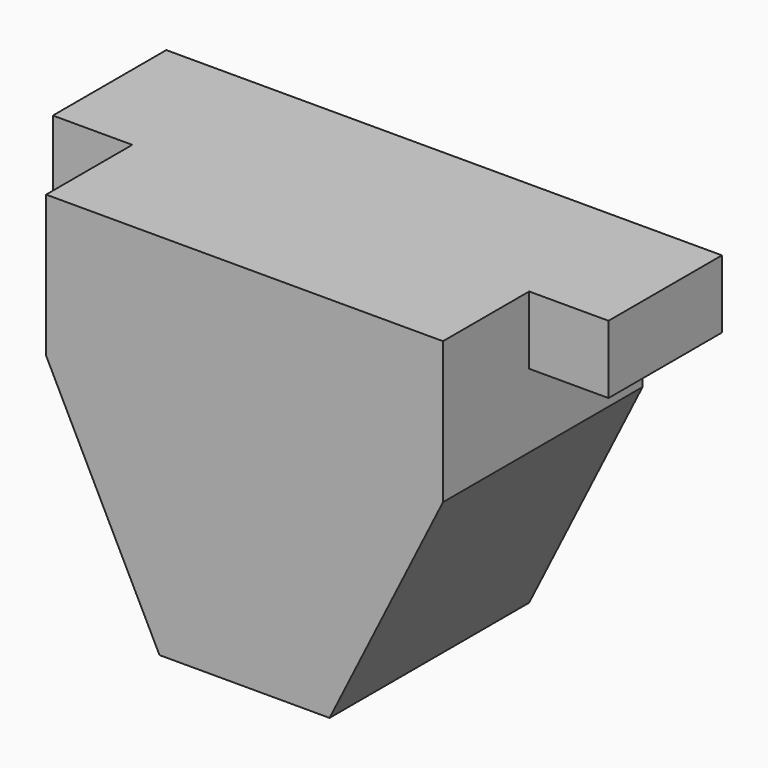
from build123d import *

# Parameters (mm, degrees)
F0_W     = 14
F0_H     = 12
F1_DEPTH = 44
F2_W     = 14
F2_H     = 12
F3_DEPTH = 19


with BuildPart() as f1:
    # F0 (on Front) → F1 (new body)
    with BuildSketch(Plane.XZ):
        Polygon((-15, -32.5), (15, -32.5), (35, 7.5), (35, 20.5), (35, 32.5), (-35, 32.5), (-35, 20.5), (-35, 7.5), align=None)
        with Locations((42, 26.5)):
            Rectangle(F0_W, F0_H)
        with Locations((-42, 26.5)):
            Rectangle(F0_W, F0_H)
    extrude(amount=F1_DEPTH)

    # F2 (on face) → F3 (cut)
    with BuildSketch(Plane.XZ.offset(44)):
        with Locations((-42, 26.5)):
            Rectangle(F2_W, F2_H)
        with Locations((42, 26.5)):
            Rectangle(F2_W, F2_H)
    extrude(amount=-F3_DEPTH, mode=Mode.SUBTRACT)


solid = f1.part
